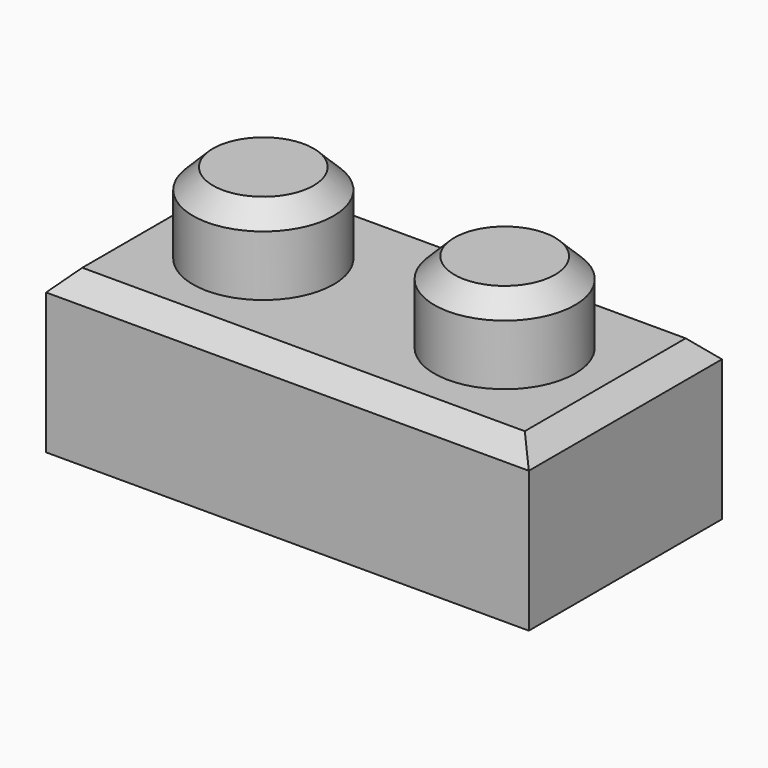
from build123d import *

# Parameters (mm, degrees)
F0_W     = 76.2
F0_H     = 38.1
F1_DEPTH = 25.4
F2_R     = 11.1125
F3_DEPTH = 12.7
F4_T     = -7.9375
F5_SIZE2 = 3.175
F5_SIZE  = 3.175


with BuildPart() as f1:
    # F0 (on Top) → F1 (new body)
    with BuildSketch(Plane.XY):
        with Locations((28.3884559706, 19.05)):
            Rectangle(F0_W, F0_H)
    extrude(amount=F1_DEPTH)

    # F2 (on face) → F3 (join)
    with BuildSketch(Plane.XY.offset(25.4)):
        with Locations((47.4384559706, 19.05)):
            Circle(F2_R)
        with Locations((9.3384559706, 19.05)):
            Circle(F2_R)
    extrude(amount=F3_DEPTH)

    # F4
    f4_openings = [f1.faces().sort_by_distance(p)[0] for p in [
        (28.388456, 19.05, 0),
    ]]
    offset(amount=F4_T, openings=f4_openings, kind=Kind.INTERSECTION)

    # F5
    f5_edges = [f1.edges().sort_by_distance(p)[0] for p in [
        (-1.774044, 19.05, 38.1),
        (36.325956, 19.05, 38.1),
        (28.388456, 0, 25.4),
        (66.488456, 19.05, 25.4),
        (28.388456, 38.1, 25.4),
        (-9.711544, 19.05, 25.4),
    ]]
    chamfer(f5_edges, length=F5_SIZE, length2=F5_SIZE2)


solid = f1.part
